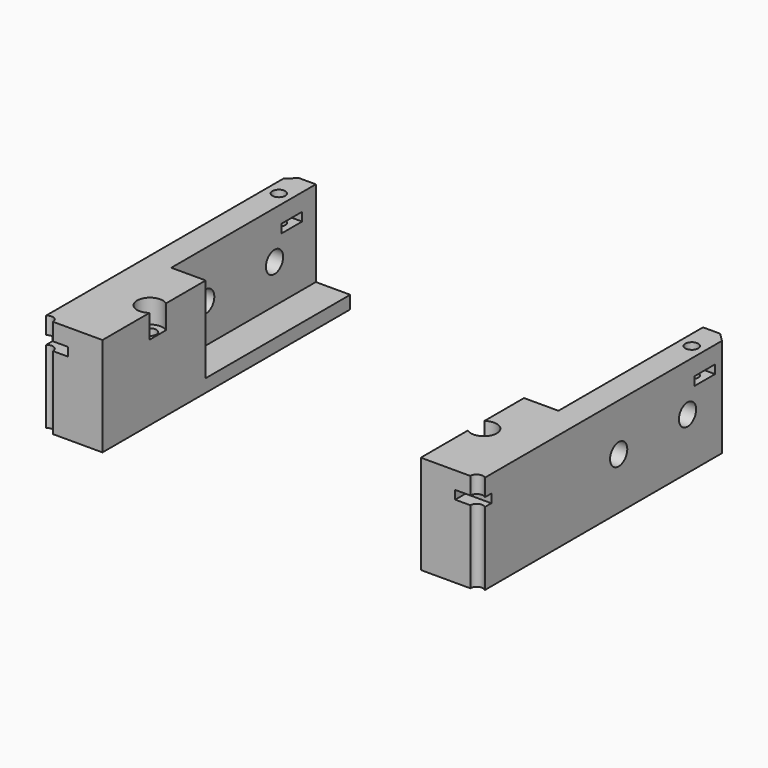
from build123d import *

# Parameters (mm, degrees)
BOX456_W                    = 10
BOX456_H                    = 6
BOX456_DEPTH                = 2
BOX455_W                    = 10
BOX455_H                    = 6
BOX455_DEPTH                = 2
BOX453_W                    = 10
BOX453_H                    = 6
BOX453_DEPTH                = 2
BOX454_W                    = 10
BOX454_H                    = 6
BOX454_DEPTH                = 2
CYLINDER958_R               = 1.5
CYLINDER958_DEPTH           = 30
CYLINDER955_R               = 1.5
CYLINDER955_DEPTH           = 30
CYLINDER957_R               = 1.5
CYLINDER957_DEPTH           = 30
CYLINDER956_R               = 1.5
CYLINDER956_DEPTH           = 30
CYLINDER911_R               = 1.5
CYLINDER911_DEPTH           = 40
CYLINDER911_PLACEMENT_ANGLE = 45
CYLINDER912_R               = 1.5
CYLINDER912_DEPTH           = 40
CYLINDER913_R               = 1.5
CYLINDER913_DEPTH           = 40
CYLINDER913_PLACEMENT_ANGLE = 135
CYLINDER908_R               = 1.5
CYLINDER908_DEPTH           = 40
CYLINDER914_R               = 1.5
CYLINDER914_DEPTH           = 40
CYLINDER914_PLACEMENT_ANGLE = 225
CYLINDER910_R               = 1.5
CYLINDER910_DEPTH           = 40
CYLINDER909_R               = 1.5
CYLINDER909_DEPTH           = 40
CYLINDER909_PLACEMENT_ANGLE = 45
CYLINDER907_R               = 1.5
CYLINDER907_DEPTH           = 40
COMPOUND797_PLACEMENT_ANGLE = 22.5
CYLINDER919_R               = 3
CYLINDER919_DEPTH           = 6
CYLINDER919_PLACEMENT_ANGLE = 45
CYLINDER920_R               = 3
CYLINDER920_DEPTH           = 6
CYLINDER921_R               = 3
CYLINDER921_DEPTH           = 6
CYLINDER921_PLACEMENT_ANGLE = 135
CYLINDER916_R               = 3
CYLINDER916_DEPTH           = 6
CYLINDER922_R               = 3
CYLINDER922_DEPTH           = 6
CYLINDER922_PLACEMENT_ANGLE = 225
CYLINDER918_R               = 3
CYLINDER918_DEPTH           = 6
CYLINDER917_R               = 3
CYLINDER917_DEPTH           = 6
CYLINDER917_PLACEMENT_ANGLE = 45
CYLINDER915_R               = 3
CYLINDER915_DEPTH           = 6
COMPOUND796_PLACEMENT_ANGLE = 22.5
BOX450_W                    = 22
BOX450_H                    = 6
BOX450_DEPTH                = 2
BOX449_W                    = 22
BOX449_H                    = 6
BOX449_DEPTH                = 2
BOX443_W                    = 20
BOX443_H                    = 200
BOX443_DEPTH                = 20
BOX444_W                    = 20
BOX444_H                    = 200
BOX444_DEPTH                = 20
CYLINDER949_R               = 1.5
CYLINDER949_DEPTH           = 30
CYLINDER948_R               = 1.5
CYLINDER948_DEPTH           = 30
CYLINDER951_R               = 2.5
CYLINDER951_DEPTH           = 40
CYLINDER952_R               = 2.5
CYLINDER952_DEPTH           = 30
CYLINDER950_R               = 2.5
CYLINDER950_DEPTH           = 160
BOX442_W                    = 14
BOX442_H                    = 72
BOX442_DEPTH                = 23
BOX441_W                    = 14
BOX441_H                    = 72
BOX441_DEPTH                = 23
CHAMFER024_SIZE             = 2


with BuildPart() as krychle456:
    # Box456 → Box456 (new body)
    with BuildSketch(Plane(origin=(55, 3, 54), x_dir=(-1, 0, 0), z_dir=(0, 0, 1))):
        with Locations((5, 3)):
            Rectangle(BOX456_W, BOX456_H)
    extrude(amount=BOX456_DEPTH)


with BuildPart() as krychle455:
    # Box455 → Box455 (new body)
    with BuildSketch(Plane(origin=(3, -55, 54), x_dir=(0, 1, 0), z_dir=(0, 0, 1))):
        with Locations((5, 3)):
            Rectangle(BOX455_W, BOX455_H)
    extrude(amount=BOX455_DEPTH)


with BuildPart() as krychle453:
    # Box453 → Box453 (new body)
    with BuildSketch(Plane(origin=(-55, -3, 54), x_dir=(1, 0, 0), z_dir=(0, 0, 1))):
        with Locations((5, 3)):
            Rectangle(BOX453_W, BOX453_H)
    extrude(amount=BOX453_DEPTH)


with BuildPart() as compound813:
    # Box454 → Box454 (new body)
    with BuildSketch(Plane(origin=(-3, 55, 54), x_dir=(0, -1, 0), z_dir=(0, 0, 1))):
        with Locations((5, 3)):
            Rectangle(BOX454_W, BOX454_H)
    extrude(amount=BOX454_DEPTH)

    # Compound813: union Krychle456, Krychle455, Krychle453
    add(krychle456.part)
    add(krychle455.part)
    add(krychle453.part)


with BuildPart() as obj1:
    # Cylinder958 → Cylinder958 (new body)
    with BuildSketch(Plane(origin=(50, 0, 35.5), x_dir=(-1, 0, 0), z_dir=(0, 0, 1))):
        Circle(CYLINDER958_R)
    extrude(amount=CYLINDER958_DEPTH)


with BuildPart() as obj2:
    # Cylinder955 → Cylinder955 (new body)
    with BuildSketch(Plane(origin=(0, -50, 35.5), x_dir=(0, 1, 0), z_dir=(0, 0, 1))):
        Circle(CYLINDER955_R)
    extrude(amount=CYLINDER955_DEPTH)


with BuildPart() as obj3:
    # Cylinder957 → Cylinder957 (new body)
    with BuildSketch(Plane(origin=(-50, 0, 35.5), x_dir=(1, 0, 0), z_dir=(0, 0, 1))):
        Circle(CYLINDER957_R)
    extrude(amount=CYLINDER957_DEPTH)


with BuildPart() as compound812:
    # Cylinder956 → Cylinder956 (new body)
    with BuildSketch(Plane(origin=(0, 50, 35.5), x_dir=(0, -1, 0), z_dir=(0, 0, 1))):
        Circle(CYLINDER956_R)
    extrude(amount=CYLINDER956_DEPTH)

    # Compound812: union obj1, obj2, obj3
    add(obj1.part)
    add(obj2.part)
    add(obj3.part)


with BuildPart() as obj4:
    # Cylinder911 → Cylinder911 (new body)
    with BuildSketch(Plane.XY):
        Circle(CYLINDER911_R)
    extrude(amount=CYLINDER911_DEPTH)


with BuildPart() as obj4_1:
    # Cylinder911 placement: moved
    add(obj4.part.moved(Location((29.698485, -29.698485, 33.5))).rotate(Axis((29.698485, -29.698485, 33.5), (0, 0, 1)), CYLINDER911_PLACEMENT_ANGLE))


with BuildPart() as obj5:
    # Cylinder912 → Cylinder912 (new body)
    with BuildSketch(Plane(origin=(42, 0, 33.5), x_dir=(0, 1, 0), z_dir=(0, 0, 1))):
        Circle(CYLINDER912_R)
    extrude(amount=CYLINDER912_DEPTH)


with BuildPart() as obj6:
    # Cylinder913 → Cylinder913 (new body)
    with BuildSketch(Plane.XY):
        Circle(CYLINDER913_R)
    extrude(amount=CYLINDER913_DEPTH)


with BuildPart() as obj6_1:
    # Cylinder913 placement: moved
    add(obj6.part.moved(Location((29.698485, 29.698485, 33.5))).rotate(Axis((29.698485, 29.698485, 33.5), (0, 0, 1)), CYLINDER913_PLACEMENT_ANGLE))


with BuildPart() as obj7:
    # Cylinder908 → Cylinder908 (new body)
    with BuildSketch(Plane(origin=(0, 42, 33.5), x_dir=(-1, 0, 0), z_dir=(0, 0, 1))):
        Circle(CYLINDER908_R)
    extrude(amount=CYLINDER908_DEPTH)


with BuildPart() as obj8:
    # Cylinder914 → Cylinder914 (new body)
    with BuildSketch(Plane.XY):
        Circle(CYLINDER914_R)
    extrude(amount=CYLINDER914_DEPTH)


with BuildPart() as obj8_1:
    # Cylinder914 placement: moved
    add(obj8.part.moved(Location((-29.698485, 29.698485, 33.5))).rotate(Axis((-29.698485, 29.698485, 33.5), (0, 0, 1)), CYLINDER914_PLACEMENT_ANGLE))


with BuildPart() as obj9:
    # Cylinder910 → Cylinder910 (new body)
    with BuildSketch(Plane(origin=(-42, 0, 33.5), x_dir=(0, -1, 0), z_dir=(0, 0, 1))):
        Circle(CYLINDER910_R)
    extrude(amount=CYLINDER910_DEPTH)


with BuildPart() as obj10:
    # Cylinder909 → Cylinder909 (new body)
    with BuildSketch(Plane.XY):
        Circle(CYLINDER909_R)
    extrude(amount=CYLINDER909_DEPTH)


with BuildPart() as obj10_1:
    # Cylinder909 placement: moved
    add(obj10.part.moved(Location((-29.698485, -29.698485, 33.5))).rotate(Axis((-29.698485, -29.698485, 33.5), (0, 0, -1)), CYLINDER909_PLACEMENT_ANGLE))


with BuildPart() as compound797:
    # Cylinder907 → Cylinder907 (new body)
    with BuildSketch(Plane(origin=(0, -42, 33.5), x_dir=(1, 0, 0), z_dir=(0, 0, 1))):
        Circle(CYLINDER907_R)
    extrude(amount=CYLINDER907_DEPTH)

    # Compound797: union obj4, obj5, obj6, obj7, obj8, obj9, obj10
    add(obj4_1.part)
    add(obj5.part)
    add(obj6_1.part)
    add(obj7.part)
    add(obj8_1.part)
    add(obj9.part)
    add(obj10_1.part)


with BuildPart() as compound797_1:
    # Compound797 placement: moved
    add(compound797.part.rotate(Axis((0, 0, 0), (0, 0, 1)), COMPOUND797_PLACEMENT_ANGLE))


with BuildPart() as obj11:
    # Cylinder919 → Cylinder919 (new body)
    with BuildSketch(Plane.XY):
        Circle(CYLINDER919_R)
    extrude(amount=CYLINDER919_DEPTH)


with BuildPart() as obj11_1:
    # Cylinder919 placement: moved
    add(obj11.part.moved(Location((29.698485, -29.698485, 33.5))).rotate(Axis((29.698485, -29.698485, 33.5), (0, 0, 1)), CYLINDER919_PLACEMENT_ANGLE))


with BuildPart() as obj12:
    # Cylinder920 → Cylinder920 (new body)
    with BuildSketch(Plane(origin=(42, 0, 33.5), x_dir=(0, 1, 0), z_dir=(0, 0, 1))):
        Circle(CYLINDER920_R)
    extrude(amount=CYLINDER920_DEPTH)


with BuildPart() as obj13:
    # Cylinder921 → Cylinder921 (new body)
    with BuildSketch(Plane.XY):
        Circle(CYLINDER921_R)
    extrude(amount=CYLINDER921_DEPTH)


with BuildPart() as obj13_1:
    # Cylinder921 placement: moved
    add(obj13.part.moved(Location((29.698485, 29.698485, 33.5))).rotate(Axis((29.698485, 29.698485, 33.5), (0, 0, 1)), CYLINDER921_PLACEMENT_ANGLE))


with BuildPart() as obj14:
    # Cylinder916 → Cylinder916 (new body)
    with BuildSketch(Plane(origin=(0, 42, 33.5), x_dir=(-1, 0, 0), z_dir=(0, 0, 1))):
        Circle(CYLINDER916_R)
    extrude(amount=CYLINDER916_DEPTH)


with BuildPart() as obj15:
    # Cylinder922 → Cylinder922 (new body)
    with BuildSketch(Plane.XY):
        Circle(CYLINDER922_R)
    extrude(amount=CYLINDER922_DEPTH)


with BuildPart() as obj15_1:
    # Cylinder922 placement: moved
    add(obj15.part.moved(Location((-29.698485, 29.698485, 33.5))).rotate(Axis((-29.698485, 29.698485, 33.5), (0, 0, 1)), CYLINDER922_PLACEMENT_ANGLE))


with BuildPart() as obj16:
    # Cylinder918 → Cylinder918 (new body)
    with BuildSketch(Plane(origin=(-42, 0, 33.5), x_dir=(0, -1, 0), z_dir=(0, 0, 1))):
        Circle(CYLINDER918_R)
    extrude(amount=CYLINDER918_DEPTH)


with BuildPart() as obj17:
    # Cylinder917 → Cylinder917 (new body)
    with BuildSketch(Plane.XY):
        Circle(CYLINDER917_R)
    extrude(amount=CYLINDER917_DEPTH)


with BuildPart() as obj17_1:
    # Cylinder917 placement: moved
    add(obj17.part.moved(Location((-29.698485, -29.698485, 33.5))).rotate(Axis((-29.698485, -29.698485, 33.5), (0, 0, -1)), CYLINDER917_PLACEMENT_ANGLE))


with BuildPart() as compound796:
    # Cylinder915 → Cylinder915 (new body)
    with BuildSketch(Plane(origin=(0, -42, 33.5), x_dir=(1, 0, 0), z_dir=(0, 0, 1))):
        Circle(CYLINDER915_R)
    extrude(amount=CYLINDER915_DEPTH)

    # Compound796: union obj11, obj12, obj13, obj14, obj15, obj16, obj17
    add(obj11_1.part)
    add(obj12.part)
    add(obj13_1.part)
    add(obj14.part)
    add(obj15_1.part)
    add(obj16.part)
    add(obj17_1.part)


with BuildPart() as compound796_1:
    # Compound796 placement: moved
    add(compound796.part.moved(Location((0, 0, 21))).rotate(Axis((0, 0, 21), (0, 0, 1)), COMPOUND796_PLACEMENT_ANGLE))


with BuildPart() as krychle450:
    # Box450 → Box450 (new body)
    with BuildSketch(Plane(origin=(39, 62, 54), x_dir=(1, 0, 0), z_dir=(0, 0, 1))):
        with Locations((11, 3)):
            Rectangle(BOX450_W, BOX450_H)
    extrude(amount=BOX450_DEPTH)


with BuildPart() as compound811:
    # Box449 → Box449 (new body)
    with BuildSketch(Plane(origin=(-64, 62, 54), x_dir=(1, 0, 0), z_dir=(0, 0, 1))):
        with Locations((11, 3)):
            Rectangle(BOX449_W, BOX449_H)
    extrude(amount=BOX449_DEPTH)

    # Compound811: union Krychle450
    add(krychle450.part)


with BuildPart() as krychle443:
    # Box443 → Box443 (new body)
    with BuildSketch(Plane(origin=(-45, 28, 8), x_dir=(1, 0, 0), z_dir=(0, 0, 1))):
        with Locations((10, 100)):
            Rectangle(BOX443_W, BOX443_H)
    extrude(amount=BOX443_DEPTH)


with BuildPart() as compound808:
    # Box444 → Box444 (new body)
    with BuildSketch(Plane(origin=(25, 28, 8), x_dir=(1, 0, 0), z_dir=(0, 0, 1))):
        with Locations((10, 100)):
            Rectangle(BOX444_W, BOX444_H)
    extrude(amount=BOX444_DEPTH)

    # Compound808: union Krychle443
    add(krychle443.part)


with BuildPart() as compound808_1:
    # Compound808 placement: moved
    add(compound808.part.moved(Location((0, 2, 32))))


with BuildPart() as obj18:
    # Cylinder949 → Cylinder949 (new body)
    with BuildSketch(Plane(origin=(-48, 65, 42.5), x_dir=(1, 0, 0), z_dir=(0, 0, 1))):
        Circle(CYLINDER949_R)
    extrude(amount=CYLINDER949_DEPTH)


with BuildPart() as compound805:
    # Cylinder948 → Cylinder948 (new body)
    with BuildSketch(Plane(origin=(48, 65, 42.5), x_dir=(1, 0, 0), z_dir=(0, 0, 1))):
        Circle(CYLINDER948_R)
    extrude(amount=CYLINDER948_DEPTH)

    # Compound805: union obj18
    add(obj18.part)


with BuildPart() as obj19:
    # Cylinder951 → Cylinder951 (new body)
    with BuildSketch(Plane(origin=(-80, 38, 18), x_dir=(0, 0, -1), z_dir=(1, 0, 0))):
        Circle(CYLINDER951_R)
    extrude(amount=CYLINDER951_DEPTH)


with BuildPart() as obj20:
    # Cylinder952 → Cylinder952 (new body)
    with BuildSketch(Plane(origin=(41, 38, 18), x_dir=(0, 0, -1), z_dir=(1, 0, 0))):
        Circle(CYLINDER952_R)
    extrude(amount=CYLINDER952_DEPTH)


with BuildPart() as compound806:
    # Cylinder950 → Cylinder950 (new body)
    with BuildSketch(Plane(origin=(-62, 58, 18), x_dir=(0, 0, -1), z_dir=(1, 0, 0))):
        Circle(CYLINDER950_R)
    extrude(amount=CYLINDER950_DEPTH)

    # Compound806: union obj19, obj20
    add(obj19.part)
    add(obj20.part)


with BuildPart() as compound806_1:
    # Compound806 placement: moved
    add(compound806.part.moved(Location((-1, 2, 31))))


with BuildPart() as krychle442:
    # Box442 → Box442 (new body)
    with BuildSketch(Plane(origin=(-51, 0, 37), x_dir=(1, 0, 0), z_dir=(0, 0, 1))):
        with Locations((7, 36)):
            Rectangle(BOX442_W, BOX442_H)
    extrude(amount=BOX442_DEPTH)


with BuildPart() as chamfer024:
    # Box441 → Box441 (new body)
    with BuildSketch(Plane(origin=(37, 0, 37), x_dir=(1, 0, 0), z_dir=(0, 0, 1))):
        with Locations((7, 36)):
            Rectangle(BOX441_W, BOX441_H)
    extrude(amount=BOX441_DEPTH)

    # Compound807: union Krychle442
    add(krychle442.part)

    # Cut398: cut Compound806
    add(compound806_1.part, mode=Mode.SUBTRACT)

    # Cut397: cut Compound805
    add(compound805.part, mode=Mode.SUBTRACT)

    # Cut399: cut Compound808
    add(compound808_1.part, mode=Mode.SUBTRACT)

    # Cut401: cut Compound811
    add(compound811.part, mode=Mode.SUBTRACT)

    # Cut402: cut Compound796
    add(compound796_1.part, mode=Mode.SUBTRACT)

    # Cut403: cut Compound797
    add(compound797_1.part, mode=Mode.SUBTRACT)

    # Cut410: cut Compound812
    add(compound812.part, mode=Mode.SUBTRACT)

    # Cut411: cut Compound813
    add(compound813.part, mode=Mode.SUBTRACT)

    # Chamfer024
    chamfer024_edges = [chamfer024.edges().sort_by_distance(p)[0] for p in [
        (51, 72, 48.5),
        (-51, 72, 48.5),
    ]]
    chamfer(chamfer024_edges, length=CHAMFER024_SIZE)


solid = chamfer024.part
